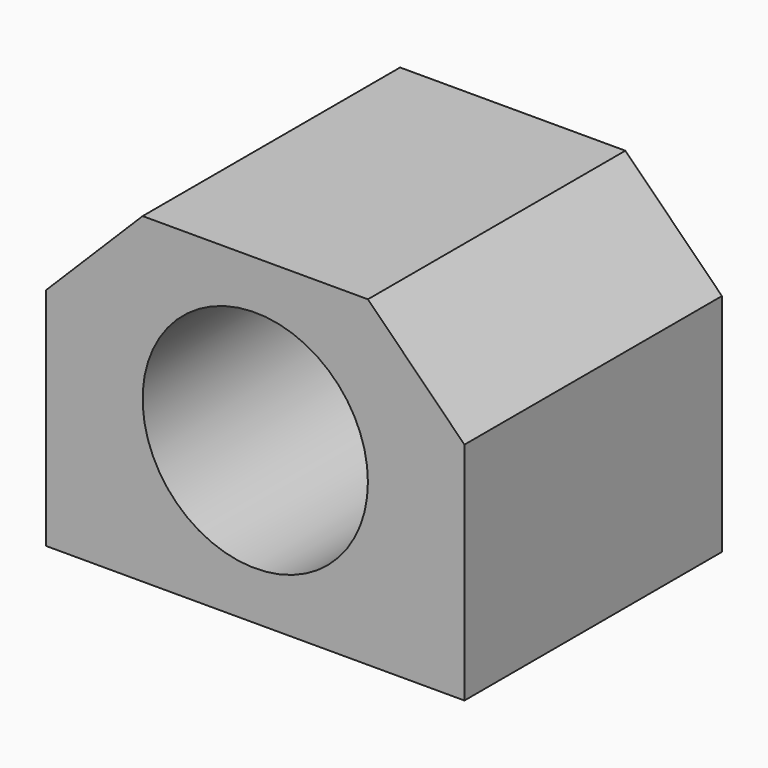
from build123d import *

# Parameters (mm, degrees)
F0_R     = 14
F1_DEPTH = 40


with BuildPart() as f1:
    # F0 (on Front) → F1 (new body)
    with BuildSketch(Plane.XZ):
        Polygon((13.999691, 20), (-14, 20), (-26, 7.999382), (-26, -20), (26, -20), (26, 7.999691), align=None)
        Circle(F0_R, mode=Mode.SUBTRACT)
    extrude(amount=-F1_DEPTH)


solid = f1.part
